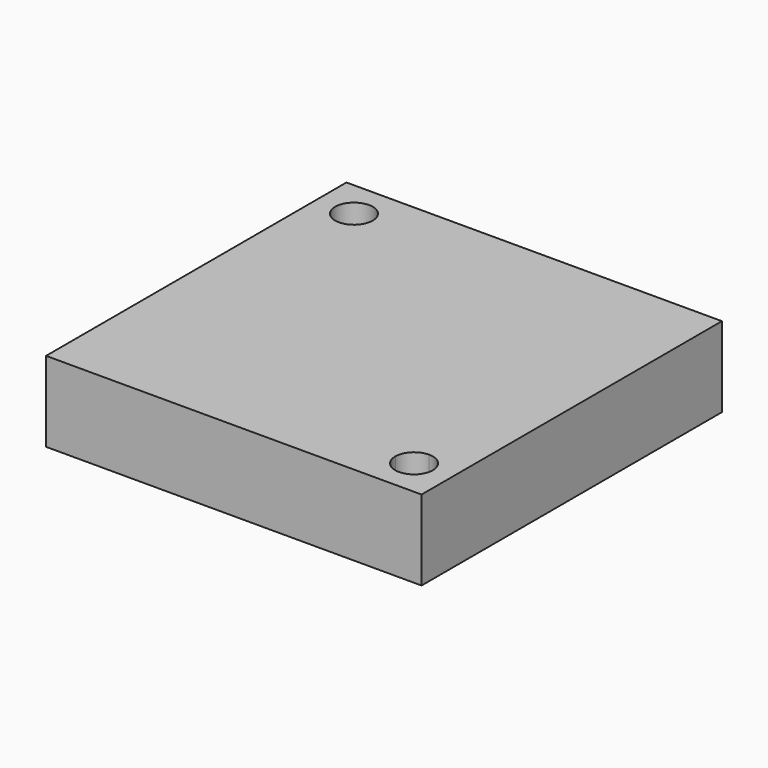
from build123d import *

# Parameters (mm, degrees)
F1_W     = 127
F1_H     = 38.1
F2_DEPTH = 63.5
F5_DEPTH = 50.8
F7_DEPTH = 50.8


with BuildPart() as f2:
    # F1 (on Front) → F2 (new body, symmetric)
    with BuildSketch(Plane.XZ):
        with Locations((-0.005746, 19.05)):
            Rectangle(F1_W, F1_H)
    extrude(amount=F2_DEPTH, both=True)

    # F0 (on Front) → F3 (revolve, cut)
    with BuildSketch(Plane.XZ):
        Polygon((53.190532, 10.998523), (38.1, 2.286), (0, 2.286), (0, 0), (132.006165, 0), (132.006165, 10.998523), align=None)
    revolve(axis=Axis((0, 0, 1.143), (0, 0, -1)), mode=Mode.SUBTRACT)

    # F4 (on Top) → F5 (cut, symmetric)
    with BuildSketch(Plane.XY):
        with BuildLine():
            Line((-50.8, 44.45), (-50.8, 50.8))
            Line((-50.8, 50.8), (-44.45, 50.8))
            ThreePointArc((-44.45, 50.8), (-55.290128, 55.290128), (-50.8, 44.45))
        make_face()
        with BuildLine():
            Line((-44.45, 50.8), (-50.8, 50.8))
            Line((-50.8, 50.8), (-50.8, 44.45))
            ThreePointArc((-50.8, 44.45), (-46.309872, 46.309872), (-44.45, 50.8))
        make_face()
    extrude(amount=F5_DEPTH, both=True, mode=Mode.SUBTRACT)

    # F6 (on Top) → F7 (cut, symmetric)
    with BuildSketch(Plane.XY):
        with BuildLine():
            ThreePointArc((50.8, -44.45), (46.309872, -46.309872), (44.45, -50.8))
            Line((44.45, -50.8), (50.8, -50.8))
            Line((50.8, -50.8), (50.8, -44.45))
        make_face()
        with BuildLine():
            Line((50.8, -50.8), (44.45, -50.8))
            ThreePointArc((44.45, -50.8), (50.8, -57.15), (57.15, -50.8))
            ThreePointArc((57.15, -50.8), (55.290128, -46.309872), (50.8, -44.45))
            Line((50.8, -44.45), (50.8, -50.8))
        make_face()
    extrude(amount=F7_DEPTH, both=True, mode=Mode.SUBTRACT)


solid = f2.part
